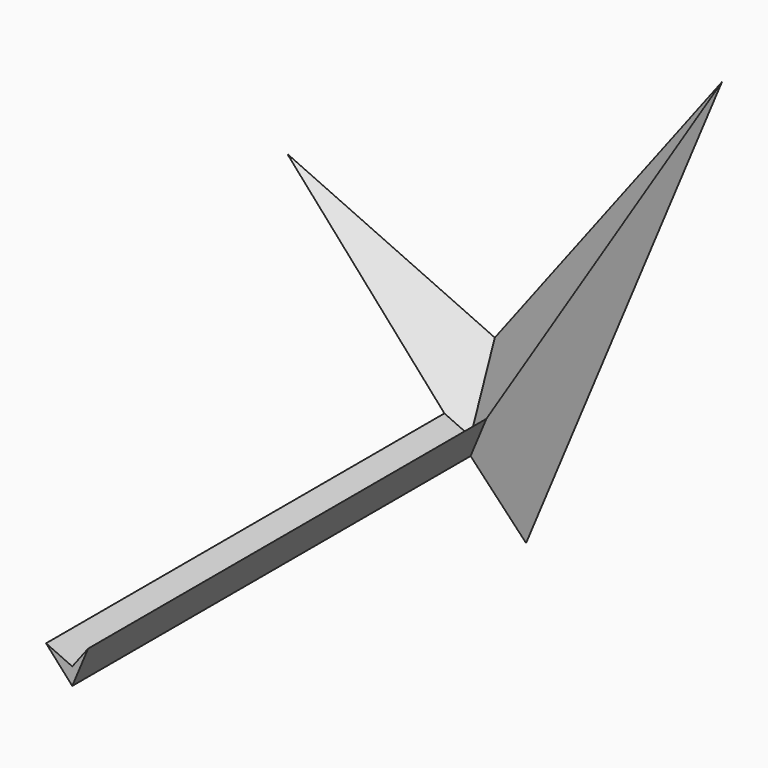
from build123d import *

# Parameters (mm, degrees)
F1_DEPTH = 150
F2_DEPTH = 15
F2_TAPER = -45


with BuildPart() as f1:
    # F0 (on Front) → F1 (new body)
    with BuildSketch(Plane.XZ):
        Polygon((5.5549415993, 5.1121377619), (0.7767878706, -1.1757001048), (-7.1085173404, 2.4076352129), (0.7767878706, -6.34407287), align=None)
    extrude(amount=F1_DEPTH)

    # F1_face (on face) → F2 (join)
    with BuildSketch(Plane(origin=(-0.2589292902, 0, -1.3638932288), x_dir=(1, 0, 0), z_dir=(0, 1, 0))):
        Polygon((1.0357171608, 4.9801796412), (-6.8495880502, -3.7715284417), (1.0357171608, -0.188193124), (5.8138708894, -6.4760309907), align=None)
    extrude(amount=F2_DEPTH, taper=F2_TAPER)


solid = f1.part
